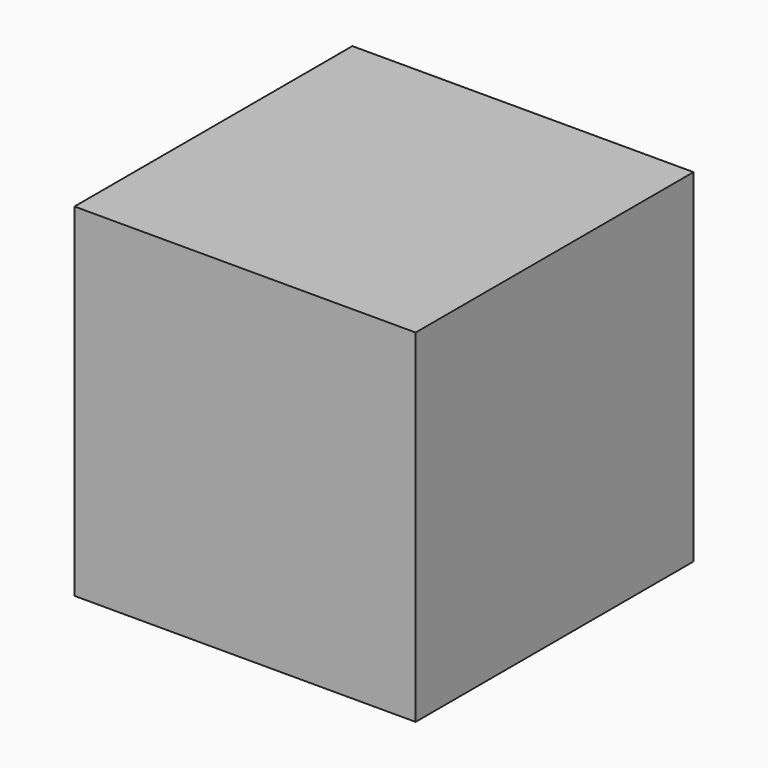
from build123d import *

# Parameters (mm, degrees)
F0_W     = 75.6174325943
F0_H     = 75.985699892
F1_DEPTH = 76.99697
F2_W     = 23.8145794719
F2_H     = 24.305600673
F3_DEPTH = 64.92311


with BuildPart() as f1:
    # F0 (on Front) → F1 (new body)
    with BuildSketch(Plane.XZ):
        with Locations((37.8087162971, 37.992849946)):
            Rectangle(F0_W, F0_H)
    extrude(amount=F1_DEPTH)

    # F2 (on Right) → F3 (cut)
    with BuildSketch(Plane.YZ):
        with Locations((-37.9314692691, 47.1381340176)):
            Rectangle(F2_W, F2_H)
    extrude(amount=F3_DEPTH, mode=Mode.SUBTRACT)


solid = f1.part
